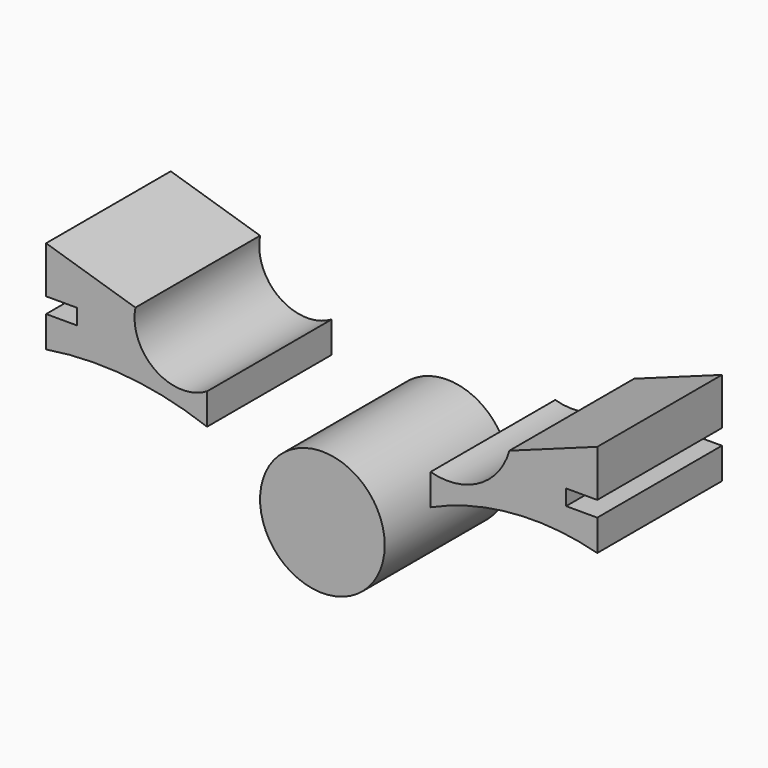
from build123d import *

# Parameters (mm, degrees)
F0_R     = 10.16
F1_DEPTH = 25.4


with BuildPart() as f1:
    # F0 (on Front) → F1 (new body)
    with BuildSketch(Plane.XZ):
        with BuildLine():
            ThreePointArc((-18.800164, 12.677523), (-27.298789, 13.011682), (-30.48, 20.899533))
            Line((-30.48, 20.899533), (-45.040336, 25.4))
            Line((-45.040336, 25.4), (-45.040336, 17.78))
            Line((-45.040336, 17.78), (-39.960336, 17.78))
            Line((-39.960336, 17.78), (-39.960336, 15.24))
            Line((-39.960336, 15.24), (-45.040336, 15.24))
            Line((-45.040336, 15.24), (-45.040336, 10.16))
            ThreePointArc((-45.040336, 10.16), (-31.755102, 10.5699), (-18.800164, 7.597523))
            Line((-18.800164, 7.597523), (-18.800164, 12.677523))
        make_face()
        with BuildLine():
            Line((44.802452, 25.4), (30.48, 20.191836))
            ThreePointArc((30.48, 20.191836), (25.557097, 13.912746), (17.634263, 12.968999))
            Line((17.634263, 12.968999), (17.634263, 7.888999))
            ThreePointArc((17.634263, 7.888999), (31.021138, 11.383859), (44.802452, 10.16))
            Line((44.802452, 10.16), (44.802452, 15.24))
            Line((44.802452, 15.24), (39.722452, 15.24))
            Line((39.722452, 15.24), (39.722452, 17.78))
            Line((39.722452, 17.78), (44.802452, 17.78))
            Line((44.802452, 17.78), (44.802452, 25.4))
        make_face()
        Circle(F0_R)
    extrude(amount=F1_DEPTH)


solid = f1.part
